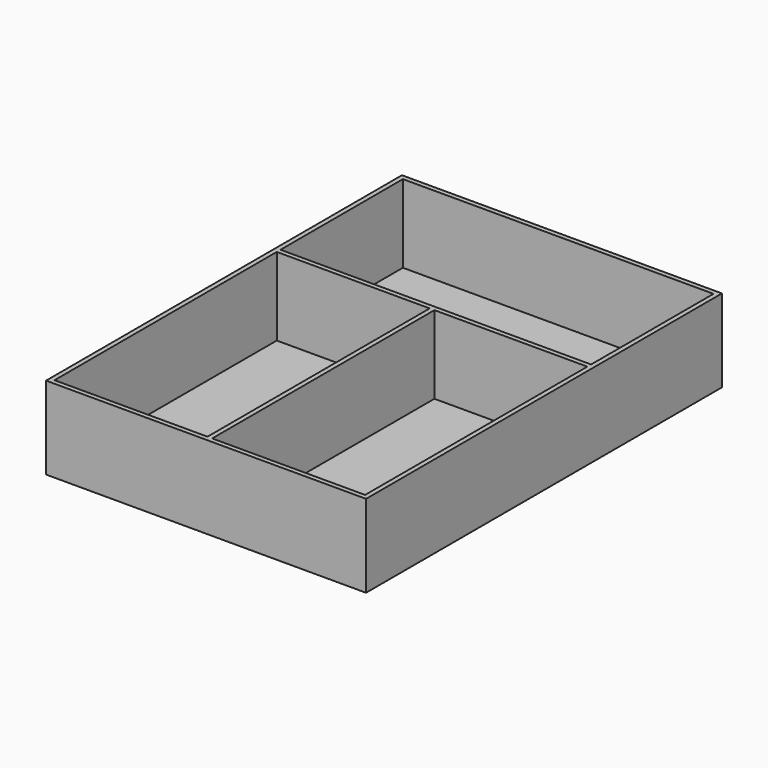
from build123d import *

# Parameters (mm, degrees)
F0_W     = 205
F0_H     = 285
F1_DEPTH = 3
F2_W     = 205
F2_H     = 285
F2_W_2   = 98
F2_H_2   = 178
F3_DEPTH = 50


with BuildPart() as f1:
    # F0 (on Top) → F1 (new body)
    with BuildSketch(Plane.XY):
        Rectangle(F0_W, F0_H)
    extrude(amount=F1_DEPTH)

    # F2 (on face) → F3 (join)
    with BuildSketch(Plane.XY.offset(3)):
        Rectangle(F2_W, F2_H)
        with Locations((-50.5, -50.5)):
            Rectangle(F2_W_2, F2_H_2, mode=Mode.SUBTRACT)
        with Locations((50.5, -50.5)):
            Rectangle(F2_W_2, F2_H_2, mode=Mode.SUBTRACT)
        Polygon((-99.5, 139.5), (99.5, 139.5), (99.5, 41.5), (0, 41.5), (-99.5, 41.5), align=None, mode=Mode.SUBTRACT)
    extrude(amount=F3_DEPTH)


solid = f1.part
